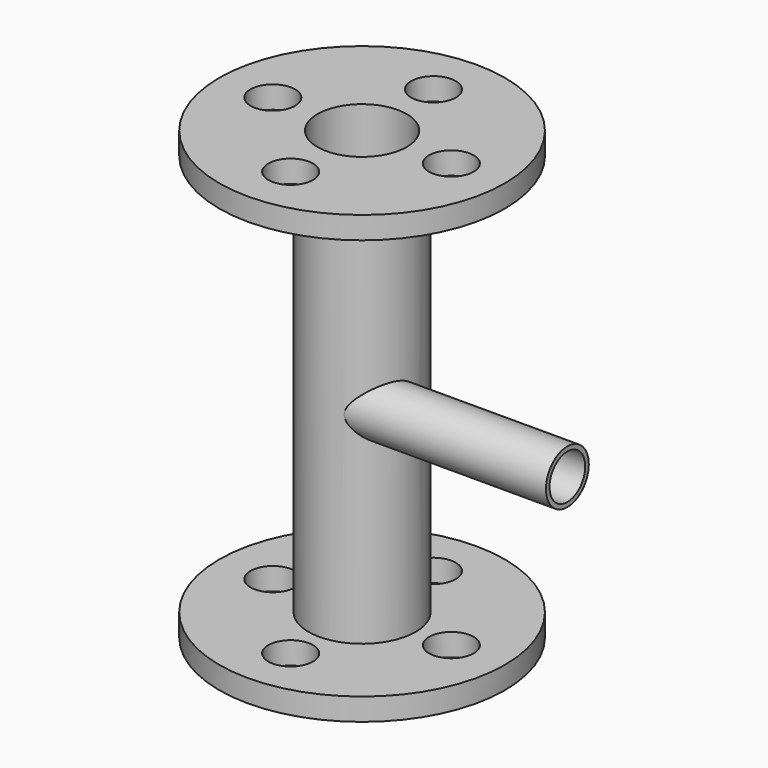
from build123d import *

# Parameters (mm, degrees)
F0_R      = 12
F1_DEPTH  = 100
F2_R      = 10
F3_DEPTH  = 100
F4_R      = 32
F4_R_2    = 12
F5_DEPTH  = 5
F6_R      = 32
F6_R_2    = 12
F7_DEPTH  = 5
F8_R      = 5
F9_DEPTH  = 100
F14_R     = 5
F15_DEPTH = 50
F16_R     = 10
F17_DEPTH = 70


with BuildPart() as f1:
    # F0 (on Top) → F1 (new body)
    with BuildSketch(Plane.XY):
        Circle(F0_R)
    extrude(amount=F1_DEPTH)

    # F2 (on face) → F3 (cut, through all)
    with BuildSketch(Plane.XY.offset(100)):
        Circle(F2_R)
    extrude(amount=-F3_DEPTH, mode=Mode.SUBTRACT)

    # F4 (on face) → F5 (join)
    with BuildSketch(Plane(origin=(0, 0, 0), x_dir=(1, 0, 0), z_dir=(0, 0, -1))):
        Circle(F4_R)
        Circle(F4_R_2, mode=Mode.SUBTRACT)
    extrude(amount=-F5_DEPTH)

    # F6 (on face) → F7 (join)
    with BuildSketch(Plane.XY.offset(100)):
        Circle(F6_R)
        Circle(F6_R_2, mode=Mode.SUBTRACT)
    extrude(amount=-F7_DEPTH)

    # F8 (on face) → F9 (cut, through all)
    with BuildSketch(Plane.XY.offset(100)):
        with Locations((0, 20)):
            Circle(F8_R)
        with Locations((-20, 0)):
            Circle(F8_R)
        with Locations((0, -20)):
            Circle(F8_R)
        with Locations((20, 0)):
            Circle(F8_R)
    extrude(amount=-F9_DEPTH, mode=Mode.SUBTRACT)

    # F13: sweep along a path in F12
    with BuildLine(Plane.XZ.offset(5)) as f13_path:
        Line((0, 50), (50, 50))
    # F10 (on Right) → F13 (sweep)
    with BuildSketch(Plane.YZ):
        with BuildLine():
            ThreePointArc((0, 46.6833752096), (0.7445626465, 48.2679491924), (1, 50))
            ThreePointArc((1, 50), (-10.7445626465, 51.7320508076), (0, 46.6833752096))
        make_face()
    sweep(path=f13_path.line)

    # F14 (on face) → F15 (cut, through all)
    with BuildSketch(Plane.YZ.offset(50)):
        with Locations((-5, 50)):
            Circle(F14_R)
    extrude(amount=-F15_DEPTH, mode=Mode.SUBTRACT)

    # F16 (on face) → F17 (cut)
    with BuildSketch(Plane.XY.offset(100)):
        Circle(F16_R)
    extrude(amount=-F17_DEPTH, mode=Mode.SUBTRACT)


solid = f1.part
